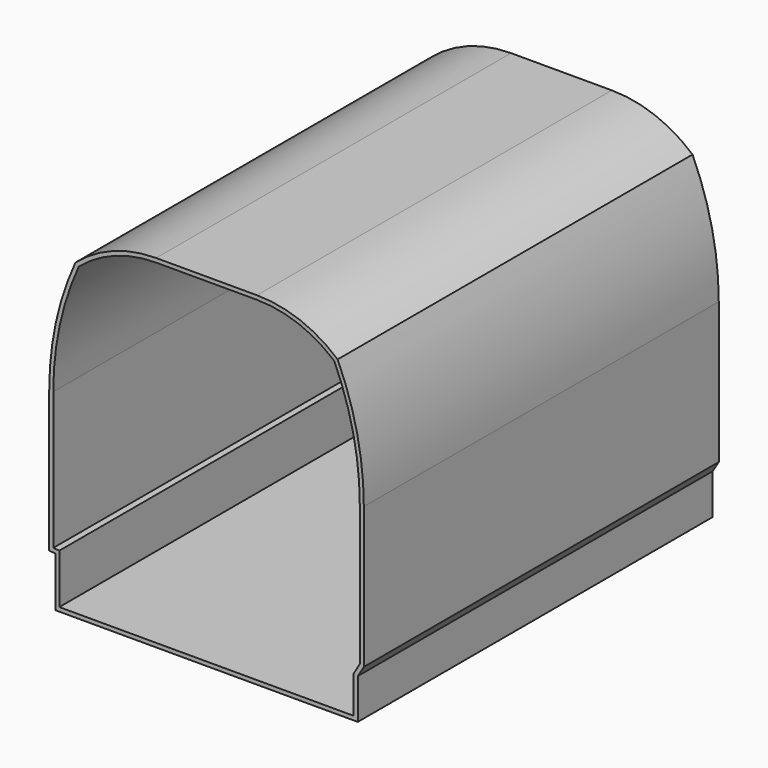
from build123d import *

# Parameters (mm, degrees)
F1_DEPTH = 2200
F2_T     = -20


with BuildPart() as f1:
    # F0 (on Front) → F1 (new body)
    with BuildSketch(Plane.XZ):
        with BuildLine():
            Line((-750, 247.7760155038), (-750, 0))
            Line((-750, 0), (750, 0))
            Line((750, 0), (750, 200))
            Line((750, 200), (780, 250))
            Line((780, 250), (780, 950))
            ThreePointArc((780, 950), (747.1272749081, 1256.9609095634), (650, 1550))
            ThreePointArc((650, 1550), (463.6000936329, 1661.2669163545), (250, 1700))
            Line((250, 1700), (-250, 1700))
            ThreePointArc((-250, 1700), (-463.6000936329, 1661.2669163545), (-650, 1550))
            ThreePointArc((-650, 1550), (-747.1272749081, 1256.9609095634), (-780, 950))
            Line((-780, 950), (-780, 250))
            Line((-780, 250), (-750, 247.7760155038))
        make_face()
    extrude(amount=F1_DEPTH)

    # F2
    f2_openings = [f1.faces().sort_by_distance(p)[0] for p in [
        (0.216994, -2200, 818.750075),
    ]]
    offset(amount=F2_T, openings=f2_openings, kind=Kind.INTERSECTION)


solid = f1.part
